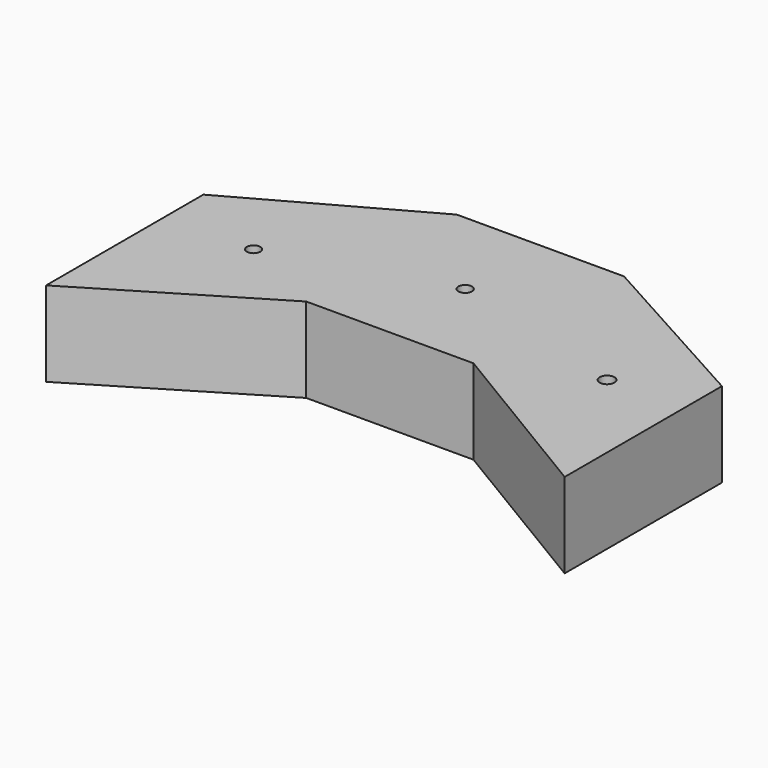
from build123d import *

# Parameters (mm, degrees)
F0_W     = 1016
F0_H     = 1143
F0_R     = 41.151468
F0_R_2   = 40.63258
F0_R_3   = 44.998125
F1_DEPTH = 515.62


with BuildPart() as f1:
    # F0 (on Top) → F1 (new body)
    with BuildSketch(Plane.XY):
        with Locations((-48.591323, 571.5)):
            Rectangle(F0_W, F0_H)
        with Locations((-48.591323, 571.5)):
            Circle(F0_R, mode=Mode.SUBTRACT)
        Polygon((-556.591323, 0), (-556.591323, 1143), (-1623.221221, 552.45), (-1623.221221, -641.35), align=None)
        with Locations((-1086.503983, 262.51331)):
            Circle(F0_R_2, mode=Mode.SUBTRACT)
        Polygon((1526.038574, 552.45), (459.408677, 1143), (459.408677, 0), (1526.038574, -641.35), align=None)
        with Locations((1060.443401, 262.51331)):
            Circle(F0_R_3, mode=Mode.SUBTRACT)
    extrude(amount=F1_DEPTH)


solid = f1.part
